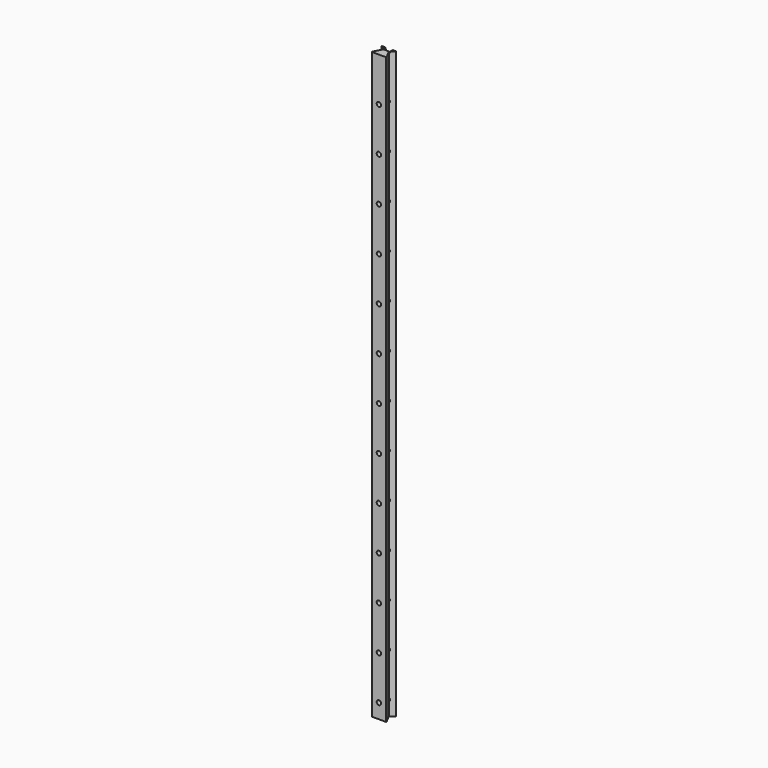
from build123d import *

# Parameters (mm, degrees)
PAD_DEPTH       = 800
SKETCH001_R     = 3
POCKET_DEPTH    = 17.410023
SKETCH002_R     = 5
POCKET001_DEPTH = 5


with BuildPart() as part:
    # Sketch → Pad (new body)
    with BuildSketch(Plane.XY):
        with BuildLine():
            Line((-9.5, 0), (9.5, 0))
            ThreePointArc((9.5, 0), (9.928584, 0.242481), (9.941474, 0.734736))
            Line((4, 11.909023), (9.941474, 0.734736))
            Line((9.810688, 16.517266), (4, 11.909023))
            ThreePointArc((9.810688, 16.517266), (9.972164, 17.073525), (9.5, 17.409023))
            Line((9.5, 17.409023), (-9.5, 17.409023))
            ThreePointArc((-9.5, 17.409023), (-9.972164, 17.073525), (-9.810688, 16.517266))
            Line((-9.810688, 16.517266), (-4, 11.909023))
            Line((-4, 11.909023), (-9.941474, 0.734736))
            ThreePointArc((-9.941474, 0.734736), (-9.928584, 0.242481), (-9.5, 0))
        make_face()
    extrude(amount=PAD_DEPTH)

    # Sketch001 (on Face2 of Pad) → Pocket (cut, through all)
    with BuildSketch(Plane(origin=(0, 17.409023, 0), x_dir=(-1, 0, 0), z_dir=(0, 1, 0))):
        with Locations((0, 20)):
            Circle(SKETCH001_R)
        with Locations((0, 80)):
            Circle(SKETCH001_R)
        with Locations((0, 140)):
            Circle(SKETCH001_R)
        with Locations((0, 200)):
            Circle(SKETCH001_R)
        with Locations((0, 260)):
            Circle(SKETCH001_R)
        with Locations((0, 320)):
            Circle(SKETCH001_R)
        with Locations((0, 380)):
            Circle(SKETCH001_R)
        with Locations((0, 440)):
            Circle(SKETCH001_R)
        with Locations((0, 500)):
            Circle(SKETCH001_R)
        with Locations((0, 560)):
            Circle(SKETCH001_R)
        with Locations((0, 620)):
            Circle(SKETCH001_R)
        with Locations((0, 680)):
            Circle(SKETCH001_R)
        with Locations((0, 740)):
            Circle(SKETCH001_R)
    extrude(amount=-POCKET_DEPTH, mode=Mode.SUBTRACT)

    # Sketch002 (on Face3 of Pocket) → Pocket001 (cut)
    with BuildSketch(Plane(origin=(0, 17.409023, 0), x_dir=(-1, 0, 0), z_dir=(0, 1, 0))):
        with Locations((0, 20)):
            Circle(SKETCH002_R)
        with Locations((0, 80)):
            Circle(SKETCH002_R)
        with Locations((0, 140)):
            Circle(SKETCH002_R)
        with Locations((0, 200)):
            Circle(SKETCH002_R)
        with Locations((0, 260)):
            Circle(SKETCH002_R)
        with Locations((0, 320)):
            Circle(SKETCH002_R)
        with Locations((0, 380)):
            Circle(SKETCH002_R)
        with Locations((0, 440)):
            Circle(SKETCH002_R)
        with Locations((0, 500)):
            Circle(SKETCH002_R)
        with Locations((0, 560)):
            Circle(SKETCH002_R)
        with Locations((0, 620)):
            Circle(SKETCH002_R)
        with Locations((0, 680)):
            Circle(SKETCH002_R)
        with Locations((0, 740)):
            Circle(SKETCH002_R)
        with Locations((0, 800)):
            Circle(SKETCH002_R)
    extrude(amount=-POCKET001_DEPTH, mode=Mode.SUBTRACT)


solid = part.part
